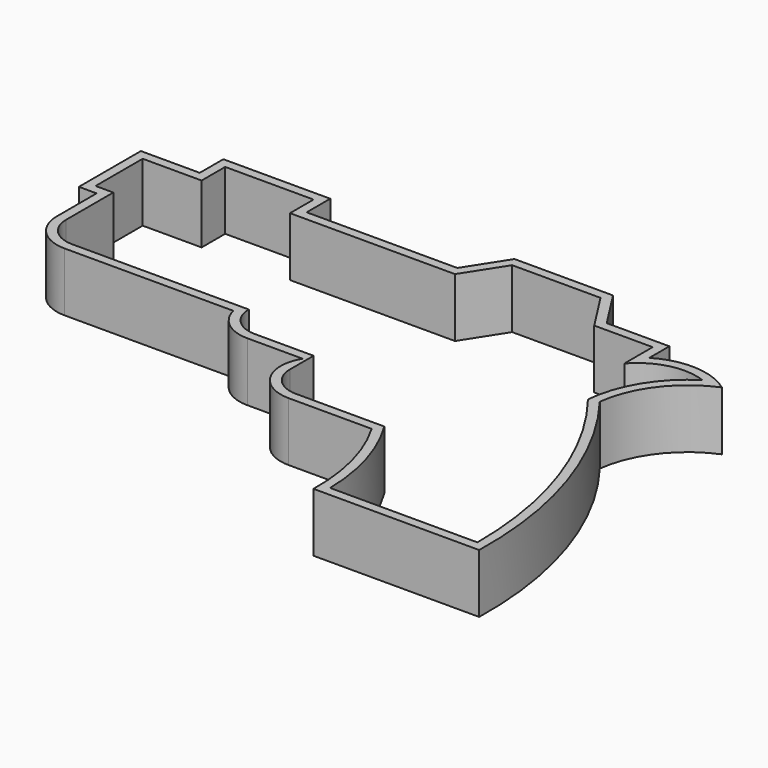
from build123d import *

# Parameters (mm, degrees)
F1_DEPTH = 12.7


with BuildPart() as f1:
    # F0 (on Top) → F1 (new body)
    with BuildSketch(Plane.XY):
        with BuildLine():
            Line((-80.052707, 58.119578), (-103.100667, 58.119578))
            Line((-103.100667, 58.119578), (-103.100667, 51.769578))
            Line((-103.100667, 51.769578), (-115.800667, 51.769578))
            Line((-115.800667, 51.769578), (-115.800667, 35.071618))
            Line((-115.800667, 35.071618), (-111.978125, 35.071618))
            Line((-111.978125, 35.071618), (-111.978125, 24.370598))
            ThreePointArc((-111.978125, 24.370598), (-109.532766, 18.466978), (-103.629145, 16.021618))
            Line((-103.629145, 16.021618), (-67.285288, 16.021618))
            ThreePointArc((-67.285288, 16.021618), (-64.327738, 11.448121), (-59.179145, 9.671618))
            Line((-59.179145, 9.671618), (-47.254739, 9.671618))
            ThreePointArc((-47.254739, 9.671618), (-47.410355, 1.235326), (-40.129145, -3.028382))
            Line((-40.129145, -3.028382), (-22.207111, -3.028382))
            ThreePointArc((-22.207111, -3.028382), (-17.587951, -14.20706), (-16.207517, -26.223461))
            Line((-16.207517, -26.223461), (19.520891, -26.223461))
            ThreePointArc((19.520891, -26.223461), (15.248512, 2.765285), (1.588509, 28.688343))
            ThreePointArc((1.588509, 28.688343), (5.727827, 38.855071), (14.397082, 45.588593))
            ThreePointArc((14.397082, 45.588593), (6.377605, 48.429118), (-1.876939, 46.369238))
            Line((-1.876939, 46.369238), (-1.876939, 51.769578))
            Line((-1.876939, 51.769578), (-15.379849, 51.769578))
            Line((-15.379849, 51.769578), (-20.864368, 60.322101))
            Line((-20.864368, 60.322101), (-42.099967, 60.322101))
            Line((-42.099967, 60.322101), (-47.584486, 51.769578))
            Line((-47.584486, 51.769578), (-80.052707, 51.769578))
            Line((-80.052707, 51.769578), (-80.052707, 58.119578))
        make_face()
        with BuildLine():
            Line((17.544895, -24.224481), (-14.205105, -24.224481))
            ThreePointArc((-14.205105, -24.224481), (-16.08053, -12.16415), (-21.079145, -1.029402))
            Line((-21.079145, -1.029402), (-40.129145, -1.029402))
            ThreePointArc((-40.129145, -1.029402), (-44.619273, 0.83047), (-46.479145, 5.320598))
            Line((-46.479145, 5.320598), (-46.479145, 11.670598))
            Line((-46.479145, 11.670598), (-59.179145, 11.670598))
            ThreePointArc((-59.179145, 11.670598), (-63.669273, 13.53047), (-65.529145, 18.020598))
            Line((-65.529145, 18.020598), (-103.629145, 18.020598))
            ThreePointArc((-103.629145, 18.020598), (-108.119273, 19.88047), (-109.979145, 24.370598))
            Line((-109.979145, 24.370598), (-109.979145, 37.070598))
            Line((-109.979145, 37.070598), (-113.801687, 37.070598))
            Line((-113.801687, 37.070598), (-113.801687, 49.770598))
            Line((-113.801687, 49.770598), (-101.101687, 49.770598))
            Line((-101.101687, 49.770598), (-101.101687, 56.120598))
            Line((-101.101687, 56.120598), (-82.051687, 56.120598))
            Line((-82.051687, 56.120598), (-82.051687, 49.770598))
            Line((-82.051687, 49.770598), (-46.491687, 49.770598))
            Line((-46.491687, 49.770598), (-41.007168, 58.323121))
            Line((-41.007168, 58.323121), (-21.957168, 58.323121))
            Line((-21.957168, 58.323121), (-16.472649, 49.770598))
            Line((-16.472649, 49.770598), (-3.875919, 49.770598))
            Line((-3.875919, 49.770598), (-3.875919, 42.150598))
            ThreePointArc((-3.875919, 42.150598), (2.608543, 46.074031), (10.174282, 45.625519))
            ThreePointArc((10.174282, 45.625519), (2.802737, 38.105), (-0.484488, 28.100399))
            ThreePointArc((-0.484488, 28.100399), (12.911162, 3.447489), (17.544895, -24.224481))
        make_face(mode=Mode.SUBTRACT)
    extrude(amount=F1_DEPTH)


solid = f1.part
